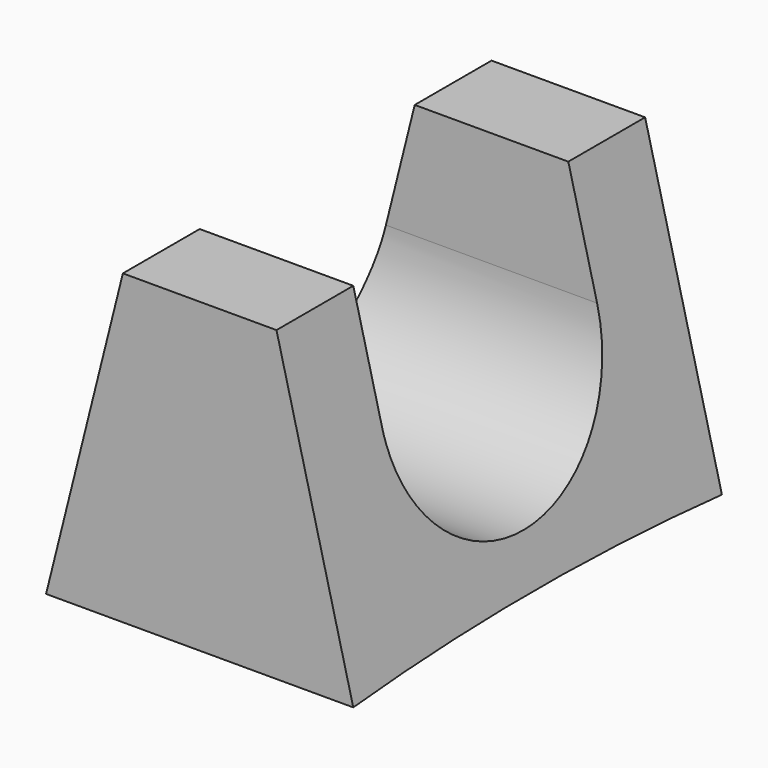
from build123d import *

# Parameters (mm, degrees)
F1_DEPTH  = 19.05
F1_FACE_W = 25.4
F1_FACE_H = 25.4
F2_DEPTH  = 19.05
F4_DEPTH  = 25.4
F6_DEPTH  = 25.4
F8_DEPTH  = 38.1


with BuildPart() as f1:
    # F0 (on Front) → F1 (new body)
    with BuildSketch(Plane.XZ):
        Polygon((-12.7, 0), (0, 0), (12.7, 0), (12.7, 25.4), (-12.7, 25.4), align=None)
    extrude(amount=F1_DEPTH)

    # F1_face (on face) → F2 (join)
    with BuildSketch(Plane(origin=(0, 0, 12.7), x_dir=(1, 0, 0), z_dir=(0, 1, 0))):
        Rectangle(F1_FACE_W, F1_FACE_H)
    extrude(amount=F2_DEPTH)

    # F3 (on face) → F4 (cut)
    with BuildSketch(Plane.YZ.offset(12.7)):
        with BuildLine():
            Line((-19.05, 0), (19.05, 0))
            ThreePointArc((19.05, 0), (0, 0.743338), (-19.05, 0))
        make_face()
    extrude(amount=-F4_DEPTH, mode=Mode.SUBTRACT)

    # F5 (on face) → F6 (cut)
    with BuildSketch(Plane.YZ.offset(12.7)):
        with BuildLine():
            Line((-11.1125, 25.4), (-11.1125, 15.875))
            ThreePointArc((-11.1125, 15.875), (0, 4.7625), (11.1125, 15.875))
            Line((11.1125, 15.875), (11.1125, 25.4))
            Line((11.1125, 25.4), (-11.1125, 25.4))
        make_face()
    extrude(amount=-F6_DEPTH, mode=Mode.SUBTRACT)

    # F7 (on face) → F8 (cut)
    with BuildSketch(Plane.XZ.offset(19.05)):
        Polygon((-12.7, 25.4), (-12.7, 0), (-6.35, 25.4), align=None)
        Polygon((6.35, 25.4), (12.7, 0), (12.7, 25.4), align=None)
    extrude(amount=-F8_DEPTH, mode=Mode.SUBTRACT)


solid = f1.part
